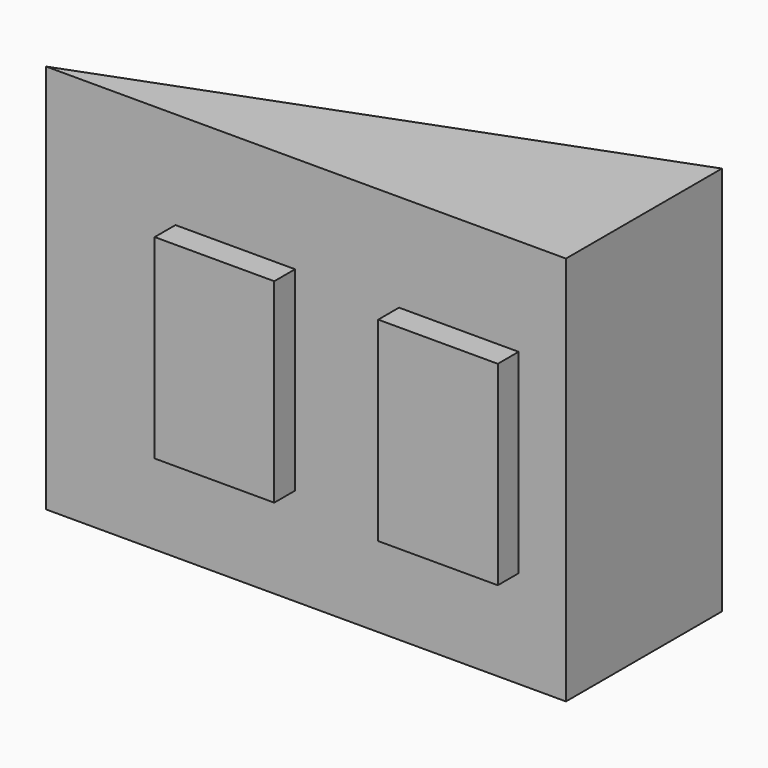
from build123d import *

# Parameters (mm, degrees)
PAD_DEPTH    = 30
SKETCH001_W  = 9.2
SKETCH001_H  = 15
PAD001_DEPTH = 2


with BuildPart() as part:
    # Sketch → Pad (new body)
    with BuildSketch(Plane.XY):
        Polygon((-10.883168, 0.282843), (29.116832, 0.282843), (29.116832, 15.282843), align=None)
    extrude(amount=PAD_DEPTH)

    # Sketch001 → Pad001 (new body)
    with BuildSketch(Plane.XZ.offset(-0.282843)):
        with Locations((3.672524, 15)):
            Rectangle(SKETCH001_W, SKETCH001_H)
        with Locations((20.872524, 15)):
            Rectangle(SKETCH001_W, SKETCH001_H)
    extrude(amount=PAD001_DEPTH)


solid = part.part
